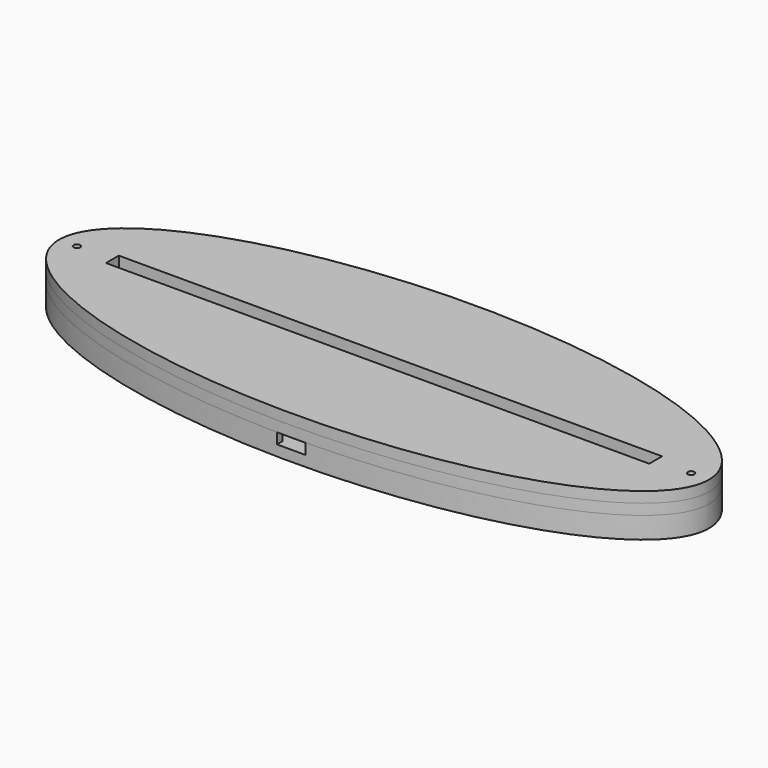
from build123d import *

# Parameters (mm, degrees)
PAD_DEPTH       = 6
SKETCH001_W     = 167
SKETCH001_H     = 10
POCKET_DEPTH    = 3
SKETCH002_W     = 18
SKETCH002_H     = 20
POCKET001_DEPTH = 3
SKETCH003_W     = 12
SKETCH003_H     = 15.5
SKETCH003_W_2   = 8
SKETCH003_H_2   = 2.1
POCKET002_DEPTH = 3
PAD001_DEPTH    = 3
SKETCH005_W     = 164.15
SKETCH005_H     = 4.44
POCKET003_DEPTH = 3
SKETCH006_W     = 152.15
SKETCH006_H     = 4.5
PAD002_DEPTH    = 3
SKETCH007_R     = 0.92
POCKET004_DEPTH = 399.26835


with BuildPart() as part:
    # Sketch → Pad (new body)
    with BuildSketch(Plane.XY):
        with BuildLine():
            add(Edge.make_bspline(
                [(91.001374, 0), (91.001374, 56.291651), (-45.500687, 28.145826), (-182.002747, 0), (-45.500687, -28.145826), (91.001374, -56.291651), (91.001374, 0)],
                knots=[0, 0, 0, 2.094395, 2.094395, 4.18879, 4.18879, 6.283185, 6.283185, 6.283185], degree=2, weights=[1, 0.5, 1, 0.5, 1, 0.5, 1]))
        make_face()
    extrude(amount=PAD_DEPTH)

    # Sketch001 (on Face3 of Pad) → Pocket (cut)
    with BuildSketch(Plane.XY.offset(6)):
        Rectangle(SKETCH001_W, SKETCH001_H)
    extrude(amount=-POCKET_DEPTH, mode=Mode.SUBTRACT)

    # Sketch002 (on Face3 of Pocket) → Pocket001 (cut)
    with BuildSketch(Plane.XY.offset(6)):
        with Locations((0, -20.5)):
            Rectangle(SKETCH002_W, SKETCH002_H)
    extrude(amount=-POCKET001_DEPTH, mode=Mode.SUBTRACT)

    # Sketch003 (on Face3 of Pocket001) → Pocket002 (cut)
    with BuildSketch(Plane.XY.offset(6)):
        with Locations((0, -2.75)):
            Rectangle(SKETCH003_W, SKETCH003_H)
        with Locations((0, -31.55)):
            Rectangle(SKETCH003_W_2, SKETCH003_H_2)
    extrude(amount=-POCKET002_DEPTH, mode=Mode.SUBTRACT)

    # Sketch004 (on Face3 of Pocket002) → Pad001 (join)
    with BuildSketch(Plane.XY.offset(6)):
        with BuildLine():
            add(Edge.make_bspline(
                [(91.001374, 0), (91.001374, 56.291651), (-45.500687, 28.145826), (-182.002747, 0), (-45.500687, -28.145826), (91.001374, -56.291651), (91.001374, 0)],
                knots=[0, 0, 0, 2.094395, 2.094395, 4.18879, 4.18879, 6.283185, 6.283185, 6.283185], degree=2, weights=[1, 0.5, 1, 0.5, 1, 0.5, 1]))
        make_face()
    extrude(amount=PAD001_DEPTH)

    # Sketch005 (on Face8 of Pad001) → Pocket003 (cut)
    with BuildSketch(Plane.XY.offset(9)):
        Rectangle(SKETCH005_W, SKETCH005_H)
    extrude(amount=-POCKET003_DEPTH, mode=Mode.SUBTRACT)

    # Sketch006 (on Face8 of Pocket003) → Pad002 (join)
    with BuildSketch(Plane.XY.offset(9)):
        with BuildLine():
            add(Edge.make_bspline(
                [(91.001374, 0), (91.001374, 56.291651), (-45.500687, 28.145826), (-182.002747, 0), (-45.500687, -28.145826), (91.001374, -56.291651), (91.001374, 0)],
                knots=[0, 0, 0, 2.094395, 2.094395, 4.18879, 4.18879, 6.283185, 6.283185, 6.283185], degree=2, weights=[1, 0.5, 1, 0.5, 1, 0.5, 1]))
        make_face()
        Rectangle(SKETCH006_W, SKETCH006_H, mode=Mode.SUBTRACT)
    extrude(amount=PAD002_DEPTH)

    # Sketch007 (on Face12 of Pad002) → Pocket004 (cut, through all)
    with BuildSketch(Plane.XY.offset(12)):
        with Locations((-86, 0)):
            Circle(SKETCH007_R)
    pocket004 = extrude(amount=-POCKET004_DEPTH, mode=Mode.SUBTRACT)

    # Mirrored: Pocket004 across Sketch007 V_Axis
    add(pocket004.mirror(Plane(origin=(0, 0, 12), x_dir=(0, 0, 1), z_dir=(1, 0, 0))), mode=Mode.SUBTRACT)


solid = part.part
